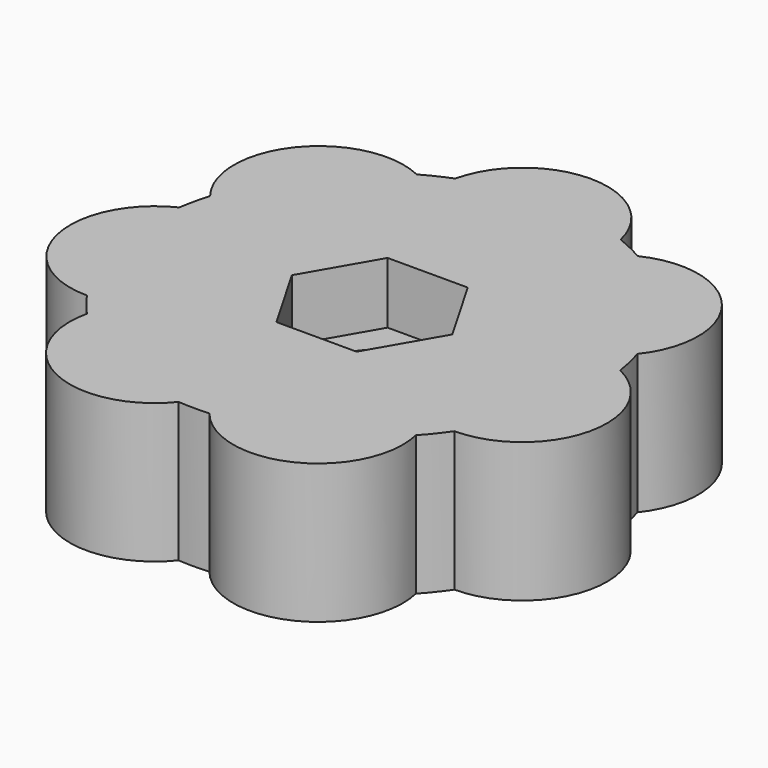
from build123d import *

# Parameters (mm, degrees)
F1_DEPTH = 10
F3_DEPTH = 4.4
F4_R     = 7.5
F5_DEPTH = 3
F6_R     = 3
F7_DEPTH = 13.001


with BuildPart() as f1:
    # F0 (on Top) → F1 (new body)
    with BuildSketch(Plane.XY):
        with BuildLine():
            ThreePointArc((5.928073, 14.86129), (0, 19.582365), (-5.928073, 14.86129))
            ThreePointArc((-5.928073, 14.86129), (-6.94214, 14.415502), (-7.922931, 13.900617))
            ThreePointArc((-7.922931, 13.900617), (-15.31011, 12.209405), (-15.315118, 4.631108))
            ThreePointArc((-15.315118, 4.631108), (-15.598847, 3.560335), (-15.807807, 2.472496))
            ThreePointArc((-15.807807, 2.472496), (-19.091394, -4.357486), (-13.169566, -9.086392))
            ThreePointArc((-13.169566, -9.086392), (-12.509304, -9.975837), (-11.789082, -10.817465))
            ThreePointArc((-11.789082, -10.817465), (-8.49647, -17.643101), (-1.107063, -15.961654))
            ThreePointArc((-1.107063, -15.961654), (0, -16), (1.107063, -15.961654))
            ThreePointArc((1.107063, -15.961654), (8.49647, -17.643101), (11.789082, -10.817465))
            ThreePointArc((11.789082, -10.817465), (12.509304, -9.975837), (13.169566, -9.086392))
            ThreePointArc((13.169566, -9.086392), (19.091394, -4.357486), (15.807807, 2.472496))
            ThreePointArc((15.807807, 2.472496), (15.598847, 3.560335), (15.315118, 4.631108))
            ThreePointArc((15.315118, 4.631108), (15.31011, 12.209405), (7.922931, 13.900617))
            ThreePointArc((7.922931, 13.900617), (6.94214, 14.415502), (5.928073, 14.86129))
        make_face()
    extrude(amount=F1_DEPTH)

    # F2 (on face) → F3 (cut)
    with BuildSketch(Plane.XY.offset(10)):
        Polygon((2.875, -4.979646), (5.75, 0), (2.875, 4.979646), (-2.875, 4.979646), (-5.75, 0), (-2.875, -4.979646), align=None)
    extrude(amount=-F3_DEPTH, mode=Mode.SUBTRACT)

    # F4 (on face) → F5 (join)
    with BuildSketch(Plane(origin=(0, 0, 0), x_dir=(1, 0, 0), z_dir=(0, 0, -1))):
        Circle(F4_R)
    extrude(amount=F5_DEPTH)

    # F6 (on face) → F7 (cut, through all)
    with BuildSketch(Plane(origin=(0, 0, -3), x_dir=(1, 0, 0), z_dir=(0, 0, -1))):
        Circle(F6_R)
    extrude(amount=-F7_DEPTH, mode=Mode.SUBTRACT)


solid = f1.part
